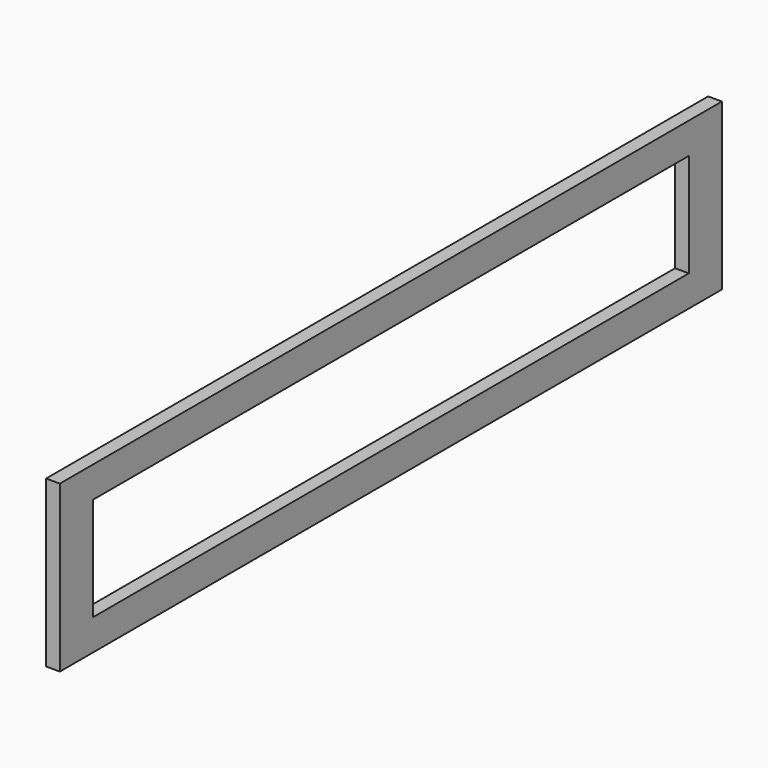
from build123d import *

# Parameters (mm, degrees)
SKETCH_W     = 600
SKETCH_H     = 120
PAD_DEPTH    = 10
SKETCH001_W  = 540
SKETCH001_H  = 75
POCKET_DEPTH = 10


with BuildPart() as part:
    # Sketch → Pad (new body)
    with BuildSketch(Plane.YZ):
        Rectangle(SKETCH_W, SKETCH_H)
    extrude(amount=PAD_DEPTH)

    # Sketch001 → Pocket (cut)
    with BuildSketch(Plane.YZ.offset(10)):
        Rectangle(SKETCH001_W, SKETCH001_H)
    extrude(amount=-POCKET_DEPTH, mode=Mode.SUBTRACT)


solid = part.part
